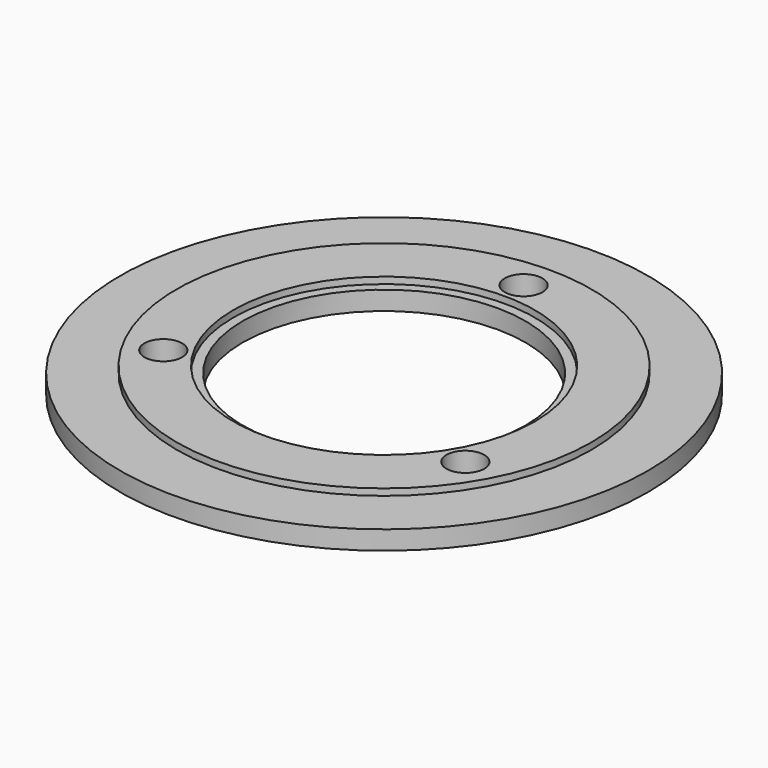
from build123d import *

# Parameters (mm, degrees)
SKETCH_R      = 28
SKETCH_R_2    = 15
PAD_DEPTH     = 2
SKETCH003_R   = 22
SKETCH003_R_2 = 16
PAD001_DEPTH  = 0.7
SKETCH002_R   = 2
POCKET_DEPTH  = 2.701


with BuildPart() as part:
    # Sketch → Pad (new body)
    with BuildSketch(Plane.XY):
        Circle(SKETCH_R)
        Circle(SKETCH_R_2, mode=Mode.SUBTRACT)
    extrude(amount=PAD_DEPTH)

    # Sketch003 (on Face4 of Pad) → Pad001 (join)
    with BuildSketch(Plane.XY.offset(2)):
        Circle(SKETCH003_R)
        Circle(SKETCH003_R_2, mode=Mode.SUBTRACT)
    extrude(amount=PAD001_DEPTH)

    # Sketch002 → Pocket (cut, through all)
    with BuildSketch(Plane.XY):
        with Locations((0, 18.5)):
            Circle(SKETCH002_R)
        with Locations((16.02147, -9.25)):
            Circle(SKETCH002_R)
        with Locations((-16.02147, -9.25)):
            Circle(SKETCH002_R)
    extrude(amount=POCKET_DEPTH, mode=Mode.SUBTRACT)


solid = part.part
